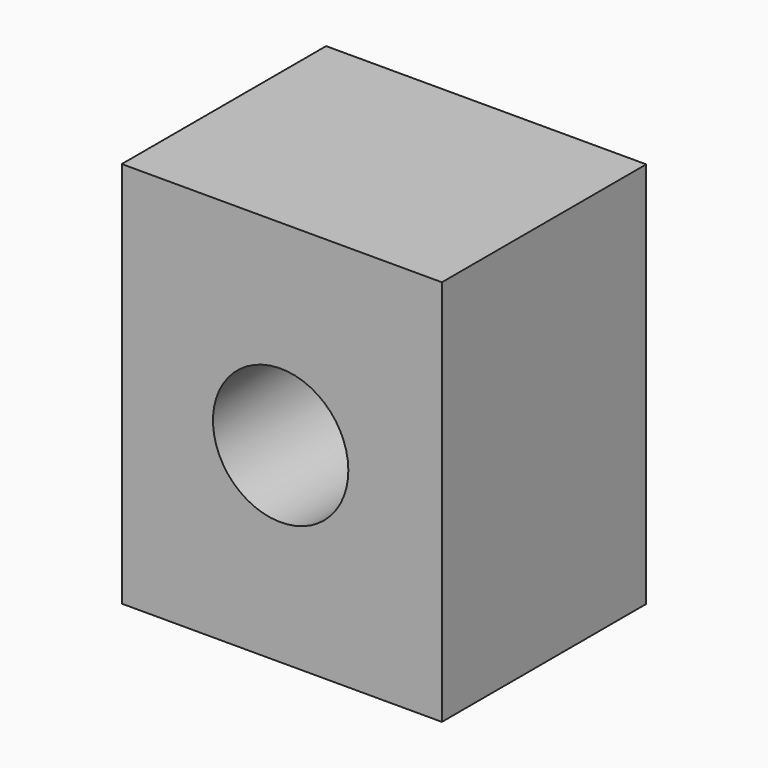
from build123d import *

# Parameters (mm, degrees)
F0_W      = 60.16257
F0_H      = 62.742576
F1_DEPTH  = 48
F1_FACE_W = 60.16257
F1_FACE_H = 48
F2_DEPTH  = 10
F4_R      = 12.38494
F5_DEPTH  = 30
F3_R      = 12.720557
F6_DEPTH  = 25


with BuildPart() as f1:
    # F0 (on Front) → F1 (new body)
    with BuildSketch(Plane.XZ):
        with Locations((30.081285, 31.371288)):
            Rectangle(F0_W, F0_H)
    extrude(amount=F1_DEPTH)

    # F1_face (on face) → F2 (join)
    with BuildSketch(Plane(origin=(30.081285, -24, 62.742576), x_dir=(1, 0, 0), z_dir=(0, 0, 1))):
        Rectangle(F1_FACE_W, F1_FACE_H)
    extrude(amount=F2_DEPTH)

    # F4 (on face) → F5 (join)
    with BuildSketch(Plane.XZ.offset(48)):
        with Locations((30.478884, 35.89391)):
            Circle(F4_R)
    extrude(amount=-F5_DEPTH)

    # F3 (on face) → F6 (cut)
    with BuildSketch(Plane.XZ.offset(48)):
        with Locations((29.86002, 35.89391)):
            Circle(F3_R)
    extrude(amount=-F6_DEPTH, mode=Mode.SUBTRACT)


solid = f1.part
